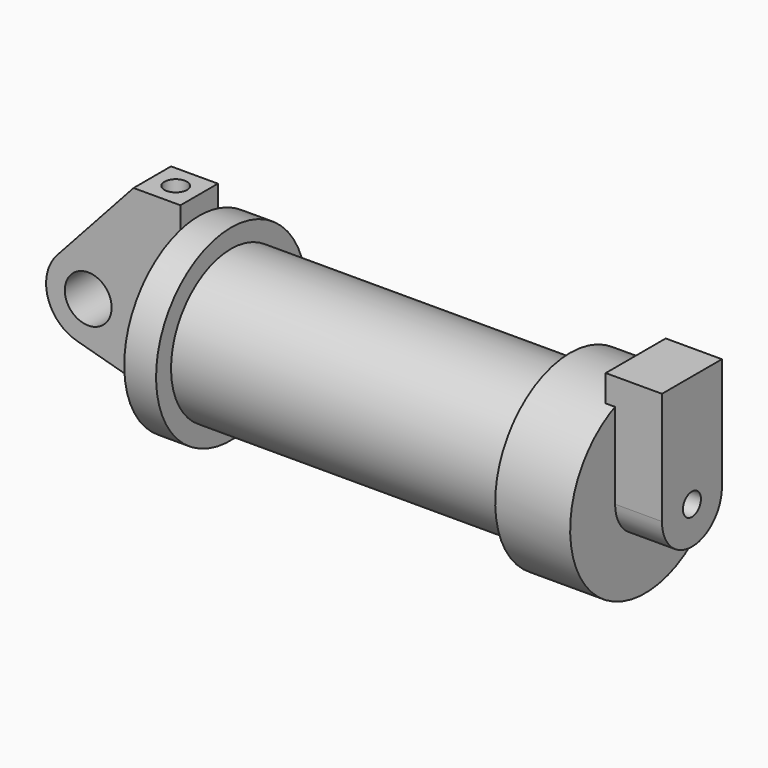
from build123d import *

# Parameters (mm, degrees)
F0_W          = 5.842
F0_H          = 12.7
F0_R          = 3.175
F2_DEPTH      = 3.175
F4_R          = 1.524
F5_DEPTH      = 17.78
F6_DEPTH      = 6.35
F6_DEPTH_BACK = 1.27


with BuildPart() as f1:
    # F0 (on Front) → F1 (revolve)
    with BuildSketch(Plane.XZ):
        Polygon((5.842, 12.7), (5.842, 0), (66.294, 0), (66.294, 12.7), (56.134, 12.7), (56.134, 10.16), (10.16, 10.16), (10.16, 12.7), align=None)
    revolve(axis=Axis((33.147, 0, 0), (-1, 0, 0)))

    # F0 (on Front) → F2 (join, symmetric)
    with BuildSketch(Plane.XZ):
        with BuildLine():
            Line((5.842, 0), (0, 0))
            Line((0, 0), (-0.9398, 0))
            ThreePointArc((-0.9398, 0), (-3.1957909266, -4.5493385486), (-8.1826630726, -5.5069827884))
            Line((-8.1826630726, -5.5069827884), (5.842, -9.398))
            Line((5.842, -9.398), (5.842, 0))
        make_face()
        with Locations((2.921, 6.35)):
            Rectangle(F0_W, F0_H)
        with BuildLine():
            Line((-0.9398, 0), (0, 0))
            Line((0, 0), (0, 12.7))
            Line((0, 12.7), (5.842, 12.7))
            Line((5.842, 12.7), (5.842, 15.24))
            Line((5.842, 15.24), (-0.508, 15.24))
            Line((-0.508, 15.24), (-10.8806298187, 3.8475430269))
            ThreePointArc((-10.8806298187, 3.8475430269), (-4.5919612295, 5.3297205562), (-0.9398, 0))
        make_face()
        with BuildLine():
            ThreePointArc((-8.1826630726, -5.5069827884), (-3.1957909266, -4.5493385486), (-0.9398, 0))
            ThreePointArc((-0.9398, 0), (-4.5919612295, 5.3297205562), (-10.8806298187, 3.8475430269))
            ThreePointArc((-10.8806298187, 3.8475430269), (-12.1459778134, -1.5837270034), (-8.1826630726, -5.5069827884))
        make_face()
        with Locations((-6.6548, 0)):
            Circle(F0_R, mode=Mode.SUBTRACT)
    extrude(amount=F2_DEPTH, both=True)

    # F4 (on face) → F5 (cut)
    with BuildSketch(Plane.XY.offset(15.24)):
        with Locations((2.667, 0)):
            Circle(F4_R)
    extrude(amount=-F5_DEPTH, mode=Mode.SUBTRACT)


with BuildPart() as f6:
    # F3 (on face) → F6 (new body, two sides)
    with BuildSketch(Plane.YZ.offset(66.294)) as f6_sk:
        with BuildLine():
            ThreePointArc((-5.08, 0), (0, 5.08), (5.08, 0))
            Line((5.08, 0), (5.08, 11.6397422652))
            ThreePointArc((5.08, 11.6397422652), (0, 12.7), (-5.08, 11.6397422652))
            Line((-5.08, 11.6397422652), (-5.08, 0))
        make_face()
        with BuildLine():
            ThreePointArc((-5.08, 11.6397422652), (0, 12.7), (5.08, 11.6397422652))
            Line((5.08, 11.6397422652), (5.08, 15.24))
            Line((5.08, 15.24), (-5.08, 15.24))
            Line((-5.08, 15.24), (-5.08, 11.6397422652))
        make_face()
        with BuildLine():
            ThreePointArc((-5.08, 0), (0, -5.08), (5.08, 0))
            ThreePointArc((5.08, 0), (0, 5.08), (-5.08, 0))
        make_face()
        with BuildLine():
            ThreePointArc((1.524, 0), (0, -1.524), (-1.524, 0))
            ThreePointArc((-1.524, 0), (0, 1.524), (1.524, 0))
        make_face(mode=Mode.SUBTRACT)
    extrude(amount=F6_DEPTH)
    extrude(f6_sk.sketch, amount=-F6_DEPTH_BACK)


solid = Compound([f1.part, f6.part])
